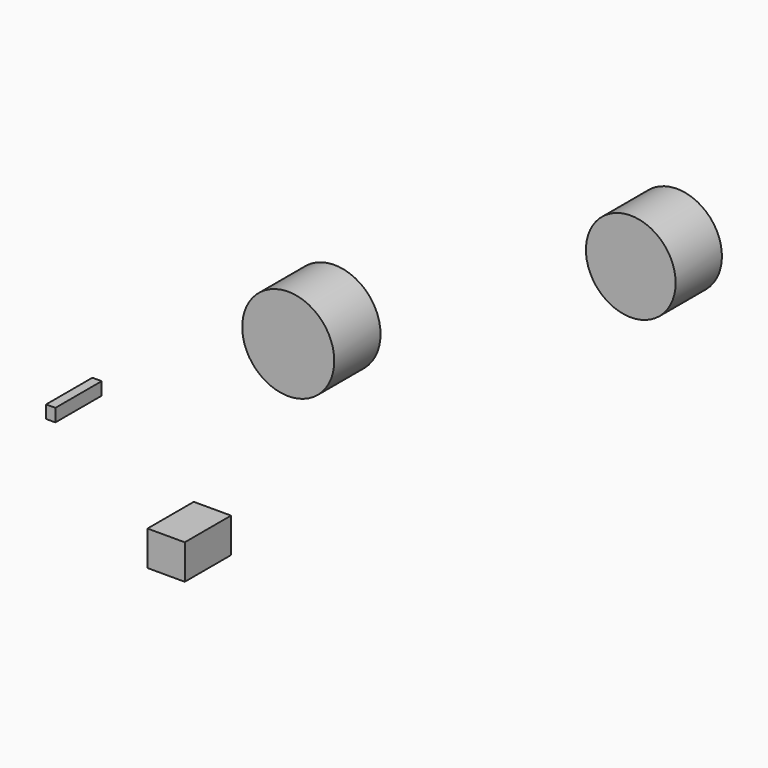
from build123d import *

# Parameters (mm, degrees)
F0_W     = 4.088908
F0_H     = 5.634487
F0_W_2   = 16.355649
F0_H_2   = 15.268765
F0_R     = 20.202694
F0_R_2   = 19.690245
F1_DEPTH = 25.4


with BuildPart() as f1:
    # F0 (on Front) → F1 (new body)
    with BuildSketch(Plane.XZ):
        with Locations((-189.680055, -43.170669)):
            Rectangle(F0_W, F0_H)
        with Locations((-139.022984, -81.475924)):
            Rectangle(F0_W_2, F0_H_2)
        with Locations((-85.412815, 17.595531)):
            Circle(F0_R)
        with Locations((64.968258, 96.444033)):
            Circle(F0_R_2)
    extrude(amount=F1_DEPTH)


solid = f1.part
